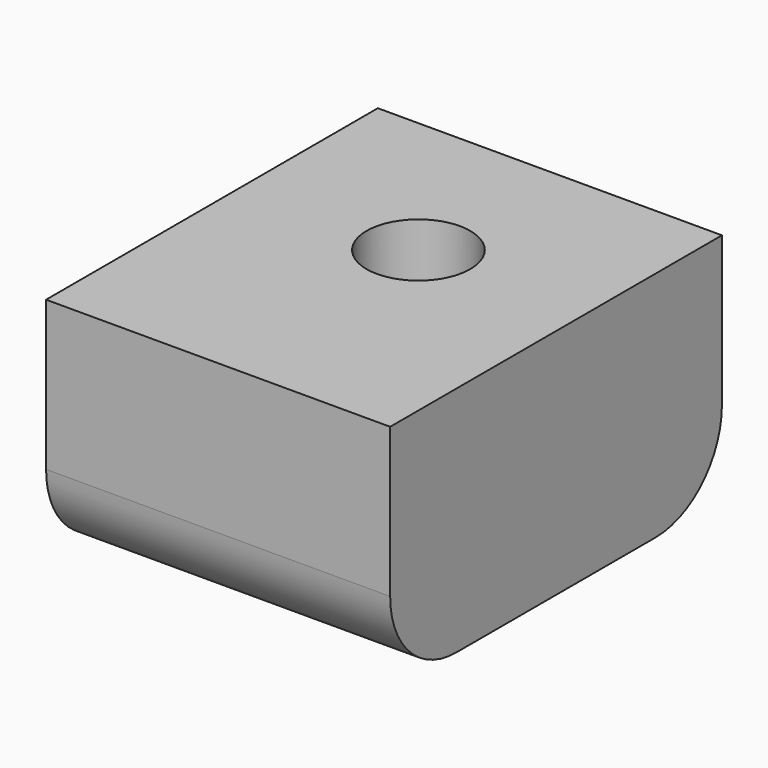
from build123d import *

# Parameters (mm, degrees)
F0_W     = 21.076461
F0_H     = 14.229262
F1_DEPTH = 25.4
F2_R     = 5.08
F4_D     = 6.35
F5_R     = 5.08


with BuildPart() as f1:
    # F0 (on Front) → F1 (new body)
    with BuildSketch(Plane.XZ):
        with Locations((10.53823, 7.114631)):
            Rectangle(F0_W, F0_H)
    extrude(amount=F1_DEPTH)

    # F2
    f2_edges = [f1.edges().sort_by_distance(p)[0] for p in [
        (10.538231, -25.4, 0),
    ]]
    fillet(f2_edges, radius=F2_R)

    # F4 (through all)
    with Locations(Plane(origin=(0, 0, 0), x_dir=(1, 0, 0), z_dir=(0, 0, -1))):
        with Locations((10.692811, 10.257974)):
            Hole(F4_D / 2)

    # F5
    f5_edges = [f1.edges().sort_by_distance(p)[0] for p in [
        (10.538231, 0, 0),
    ]]
    fillet(f5_edges, radius=F5_R)


solid = f1.part
